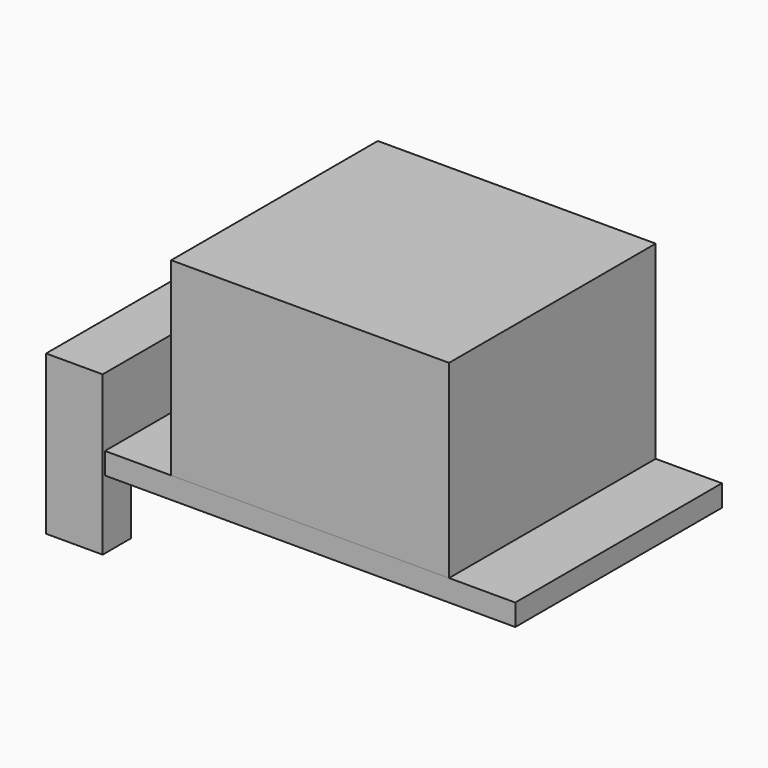
from build123d import *

# Parameters (mm, degrees)
F0_W     = 32.49
F0_H     = 20.45
F1_DEPTH = 0.855
F2_W     = 20.9
F2_H     = 12.57
F3_DEPTH = 4.48
F4_W     = 15.28
F4_H     = 5.72
F5_DEPTH = 4.48
F6_W     = 22
F6_H     = 20.45
F7_DEPTH = 15


with BuildPart() as f1:
    # F0 (on Top) → F1 (new body, symmetric)
    with BuildSketch(Plane.XY):
        Rectangle(F0_W, F0_H)
    extrude(amount=F1_DEPTH, both=True)


with BuildPart() as f3:
    # F2 (on face) → F3 (new body)
    with BuildSketch(Plane(origin=(-16.245, 0, 0), x_dir=(0, -1, 0), z_dir=(-1, 0, 0))):
        Rectangle(F2_W, F2_H)
    extrude(amount=F3_DEPTH)

    # F4 (on face) → F5 (cut, through all)
    with BuildSketch(Plane(origin=(-20.725, 0, 0), x_dir=(0, -1, 0), z_dir=(-1, 0, 0))):
        with Locations((0, -3.425)):
            Rectangle(F4_W, F4_H)
    extrude(amount=-F5_DEPTH, mode=Mode.SUBTRACT)


with BuildPart() as f7:
    # F6 (on face) → F7 (new body)
    with BuildSketch(Plane.XY.offset(0.855)):
        Rectangle(F6_W, F6_H)
    extrude(amount=F7_DEPTH)


solid = Compound([f1.part, f3.part, f7.part])
